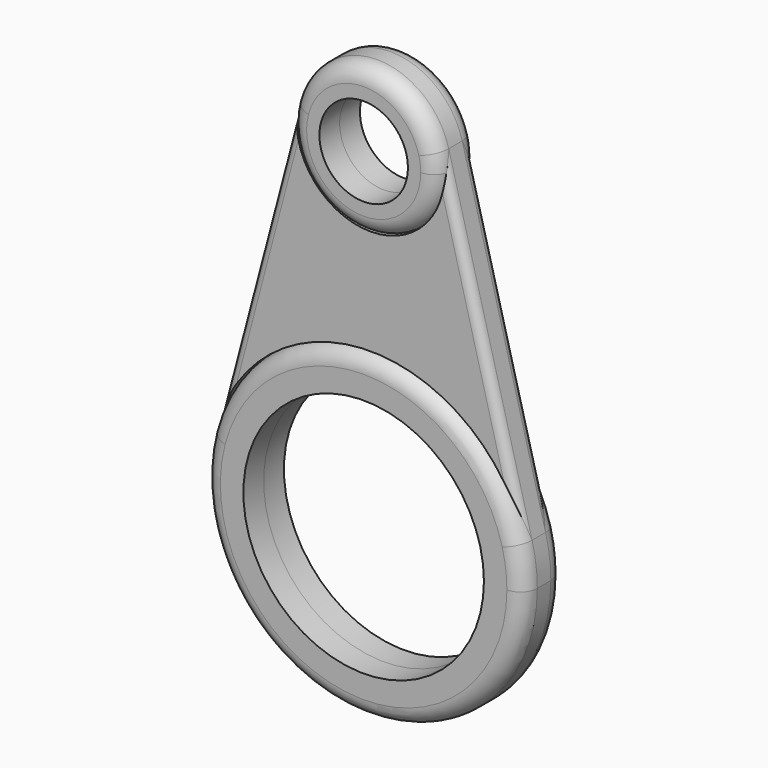
from build123d import *

# Parameters (mm, degrees)
F0_R          = 36.158901
F0_R_2        = 13.312834
F1_DEPTH      = 7.62
F1_DEPTH_BACK = 7.62
F2_DEPTH      = 5.08
F2_DEPTH_BACK = 5.08
F3_R          = 5.08
F4_R          = 2.54


with BuildPart() as f1:
    # F0 (on Front) → F1 (new body, two sides)
    with BuildSketch(Plane.XZ) as f1_sk:
        with BuildLine():
            ThreePointArc((-46.567724, 12.227131), (-6.164298, -47.749944), (48.146191, 0))
            ThreePointArc((48.146191, 0), (47.749944, 6.164298), (46.567724, 12.227131))
            ThreePointArc((46.567724, 12.227131), (0, 48.146191), (-46.567724, 12.227131))
        make_face()
        Circle(F0_R, mode=Mode.SUBTRACT)
        with BuildLine():
            ThreePointArc((22.231698, 102.042265), (22.048729, 104.888655), (21.502834, 107.688192))
            ThreePointArc((21.502834, 107.688192), (0, 124.273963), (-21.502834, 107.688192))
            ThreePointArc((-21.502834, 107.688192), (-2.846389, 79.993536), (22.231698, 102.042265))
        make_face()
        with Locations((0, 102.042265)):
            Circle(F0_R_2, mode=Mode.SUBTRACT)
    extrude(amount=F1_DEPTH)
    extrude(f1_sk.sketch, amount=-F1_DEPTH_BACK)

    # F3
    f3_edges = [f1.edges().sort_by_distance(p)[0] for p in [
        (-22.231698, -7.62, 102.042265),
        (-48.146191, -7.62, 0),
        (-48.146191, 7.62, 0),
        (-22.231698, 7.62, 102.042265),
    ]]
    fillet(f3_edges, radius=F3_R)


with BuildPart() as f2:
    # F0 (on Front) → F2 (new body, two sides)
    with BuildSketch(Plane.XZ) as f2_sk:
        with BuildLine():
            ThreePointArc((-46.567724, 12.227131), (0, 48.146191), (46.567724, 12.227131))
            Line((46.567724, 12.227131), (21.502834, 107.688192))
            ThreePointArc((21.502834, 107.688192), (22.048729, 104.888655), (22.231698, 102.042265))
            ThreePointArc((22.231698, 102.042265), (-2.846389, 79.993536), (-21.502834, 107.688192))
            Line((-21.502834, 107.688192), (-46.567724, 12.227131))
        make_face()
    extrude(amount=F2_DEPTH)
    extrude(f2_sk.sketch, amount=-F2_DEPTH_BACK)

    # F4
    f4_edges = [f2.edges().sort_by_distance(p)[0] for p in [
        (34.035279, 5.08, 59.957662),
        (34.035279, -5.08, 59.957662),
        (-34.035279, 5.08, 59.957662),
        (-34.035279, -5.08, 59.957662),
    ]]
    fillet(f4_edges, radius=F4_R)


solid = Compound([f1.part, f2.part])
